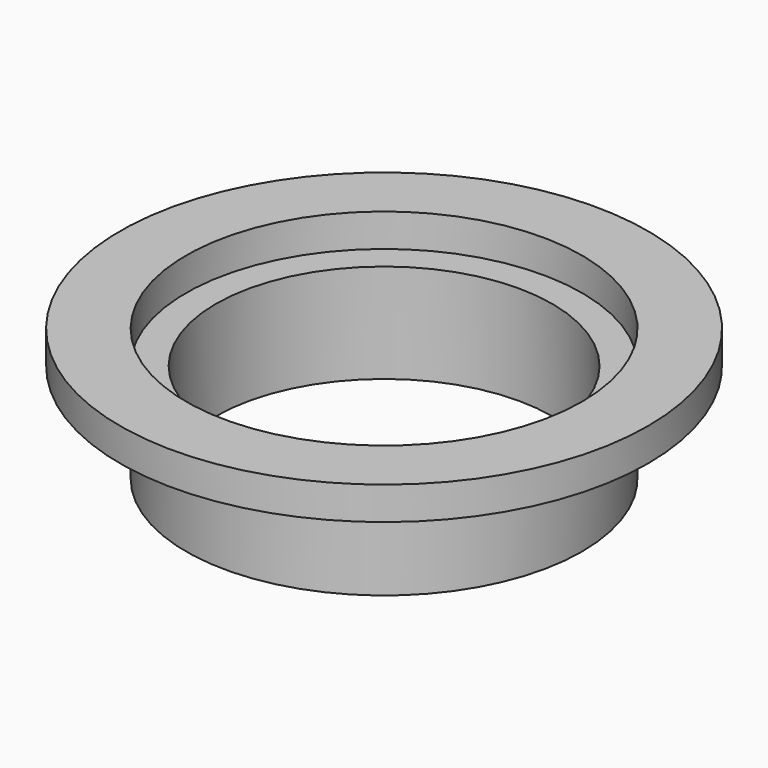
from build123d import *

# Parameters (mm, degrees)
F0_R     = 8
F0_R_2   = 6
F1_DEPTH = 1
F0_R_3   = 5.7
F0_R_4   = 5.1
F2_DEPTH = 3


with BuildPart() as f1:
    # F0 (on Top) → F1 (new body)
    with BuildSketch(Plane.XY):
        with Locations((-43.945316, 40.749602)):
            Circle(F0_R)
        with Locations((-43.945316, 40.749602)):
            Circle(F0_R_2, mode=Mode.SUBTRACT)
    extrude(amount=F1_DEPTH)


with BuildPart() as f2:
    # F0 (on Top) → F2 (new body)
    with BuildSketch(Plane.XY):
        with Locations((-43.945316, 40.749602)):
            Circle(F0_R_2)
        with Locations((-43.945316, 40.749602)):
            Circle(F0_R_3, mode=Mode.SUBTRACT)
        with Locations((-43.945316, 40.749602)):
            Circle(F0_R_3)
        with Locations((-43.945316, 40.749602)):
            Circle(F0_R_4, mode=Mode.SUBTRACT)
    extrude(amount=-F2_DEPTH)


solid = Compound([f1.part, f2.part])
